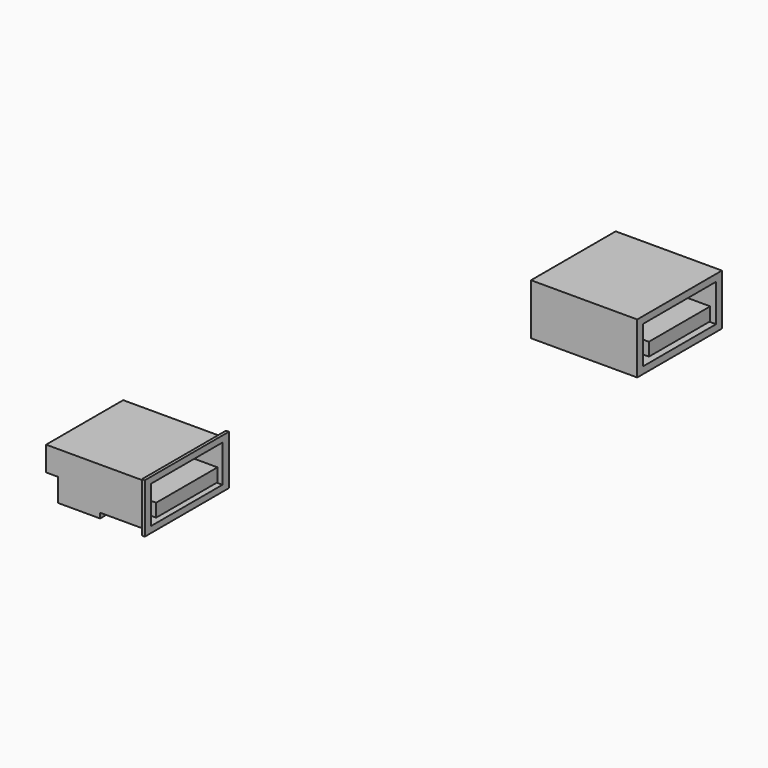
from build123d import *

# Parameters (mm, degrees)
F1_W          = 6.2
F1_H          = 13.2
F1_W_2        = 5.8
F1_W_3        = 1.6
F2_DEPTH      = 3.35
F3_DEPTH      = 3.15
F4_DEPTH      = 2.45
F5_DEPTH      = 3.85
F5_DEPTH_BACK = 2.95
F6_W          = 12.2
F6_H          = 5.1
F6_W_2        = 10.5
F6_H_2        = 1.8
F7_DEPTH      = 9
F8_W          = 14.55
F8_H          = 14.5
F9_DEPTH      = 7
F10_W         = 12.5
F10_H         = 5.12
F10_W_2       = 10.5
F10_H_2       = 1.8
F11_DEPTH     = 9


with BuildPart() as f2:
    # F1 (on Top) → F2 (new body)
    with BuildSketch(Plane.XY):
        with Locations((85.2, 7.85)):
            Rectangle(F1_W, F1_H)
        with Locations((79.2, 7.85)):
            Rectangle(F1_W_2, F1_H)
        with Locations((75.5, 7.85)):
            Rectangle(F1_W_3, F1_H)
    extrude(amount=F2_DEPTH)

    # F1 (on Top) → F3 (join)
    with BuildSketch(Plane.XY):
        with Locations((79.2, 7.85)):
            Rectangle(F1_W_2, F1_H)
    extrude(amount=-F3_DEPTH)

    # F1 (on Top) → F4 (join)
    with BuildSketch(Plane.XY):
        with Locations((85.2, 7.85)):
            Rectangle(F1_W, F1_H)
    extrude(amount=-F4_DEPTH)

    # F1 (on Top) → F5 (join, two sides)
    with BuildSketch(Plane.XY) as f5_sk:
        Polygon((88.3, 14.45), (88.3, 1.25), (88.3, 0.65), (88.7, 0.65), (88.7, 15.05), (88.3, 15.05), align=None)
    extrude(amount=F5_DEPTH)
    extrude(f5_sk.sketch, amount=-F5_DEPTH_BACK)

    # F6 (on face) → F7 (cut)
    with BuildSketch(Plane.YZ.offset(88.7)):
        with Locations((7.85, 0.45)):
            Rectangle(F6_W, F6_H)
        with Locations((7.85, -0.55)):
            Rectangle(F6_W_2, F6_H_2, mode=Mode.SUBTRACT)
    extrude(amount=-F7_DEPTH, mode=Mode.SUBTRACT)


with BuildPart() as f9:
    # F8 (on Top) → F9 (new body)
    with BuildSketch(Plane.XY):
        with Locations((103.062142683, 65.1640551686)):
            Rectangle(F8_W, F8_H)
    extrude(amount=F9_DEPTH)

    # F10 (on face) → F11 (cut)
    with BuildSketch(Plane.YZ.offset(110.337142683)):
        with Locations((65.1640551686, 3.5)):
            Rectangle(F10_W, F10_H)
        with Locations((65.1640551686, 2.6)):
            Rectangle(F10_W_2, F10_H_2, mode=Mode.SUBTRACT)
    extrude(amount=-F11_DEPTH, mode=Mode.SUBTRACT)


solid = Compound([f2.part, f9.part])
